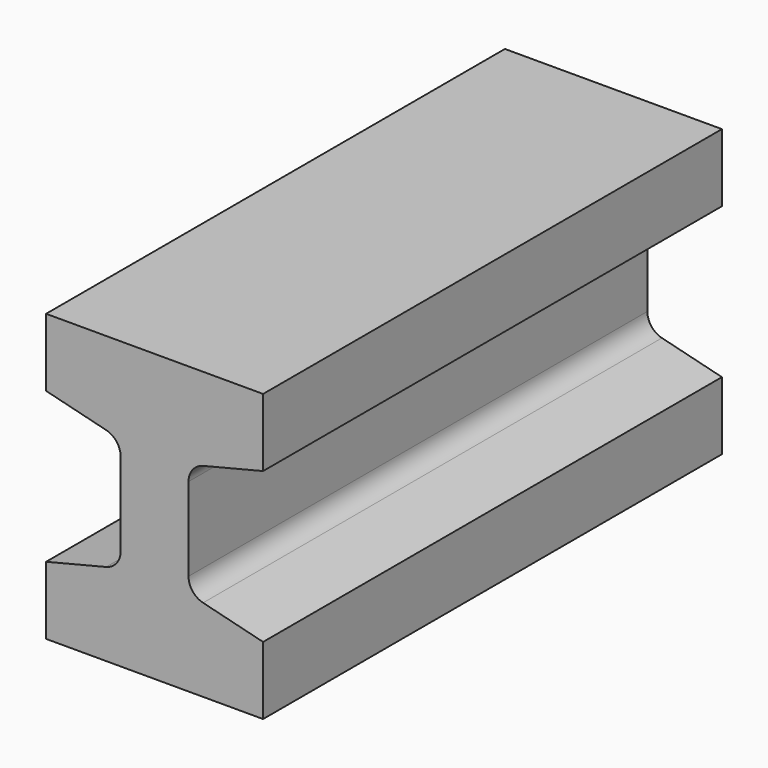
from build123d import *

# Parameters (mm, degrees)
F1_DEPTH = 500
F2_R     = 33.415616


with BuildPart() as f1:
    # F0 (on Front) → F1 (new body, symmetric)
    with BuildSketch(Plane.XZ):
        Polygon((-141.84029, 131.140749), (-11.84029, 98.816335), (-11.84029, -98.816335), (-141.84029, -131.140749), (-141.84029, -249.530149), (236.54911, -249.530149), (236.54911, -131.140749), (106.54911, -98.816335), (106.54911, 98.816335), (236.54911, 131.140749), (236.54911, 249.530149), (-141.84029, 249.530149), align=None)
    extrude(amount=F1_DEPTH, both=True)

    # F2
    f2_edges = [f1.edges().sort_by_distance(p)[0] for p in [
        (106.54911, 0, -98.816335),
        (-11.84029, 0, 98.816335),
        (-11.84029, 0, -98.816335),
        (106.54911, 0, 98.816335),
    ]]
    fillet(f2_edges, radius=F2_R)


solid = f1.part
